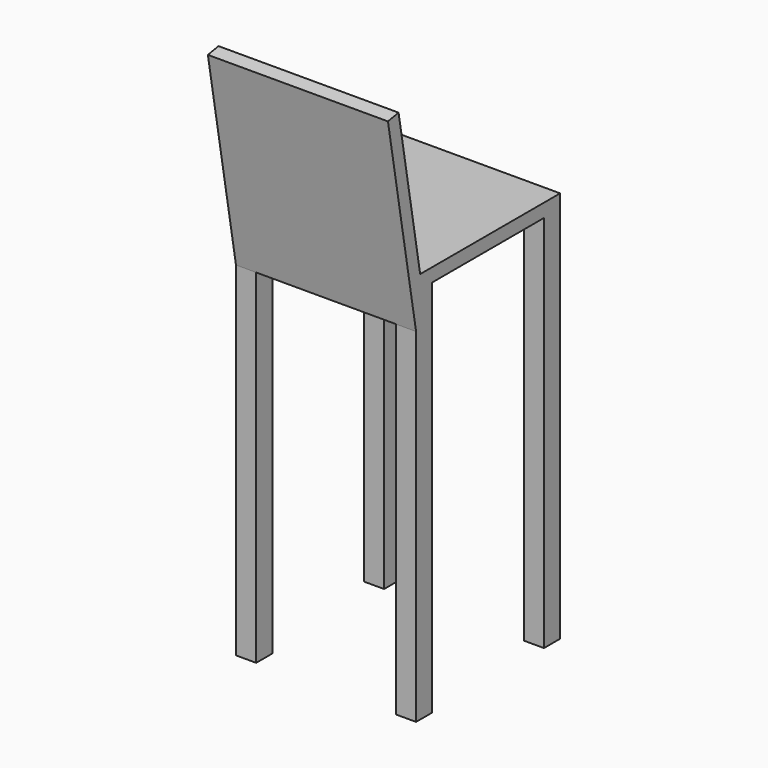
from build123d import *

# Parameters (mm, degrees)
F0_W          = 38.1
F0_H          = 38.1
F1_DEPTH      = 739.775
F3_DEPTH      = 25.4
F6_DEPTH      = 169.8625
F6_DEPTH_BACK = 169.8625


with BuildPart() as f1:
    # F0 (on Top) → F1 (new body)
    with BuildSketch(Plane.XY):
        with Locations((-150.8125, 150.8125)):
            Rectangle(F0_W, F0_H)
        with Locations((-150.8125, -150.8125)):
            Rectangle(F0_W, F0_H)
        with Locations((150.8125, -150.8125)):
            Rectangle(F0_W, F0_H)
        with Locations((150.8125, 150.8125)):
            Rectangle(F0_W, F0_H)
    extrude(amount=F1_DEPTH)


with BuildPart() as f3:
    # F2 (on face) → F3 (new body)
    with BuildSketch(Plane.XY.offset(739.775)):
        Polygon((169.8625, 169.8625), (-131.7625, 169.8625), (-131.7625, 131.7625), (-169.8625, 131.7625), (-169.8625, -169.8625), (169.8625, -169.8625), align=None)
    extrude(amount=-F3_DEPTH)

    # F4: union F1
    add(f1.part)

    # F5 (on Right) → F6 (join, two sides)
    with BuildSketch(Plane.YZ) as f6_sk:
        Polygon((-169.8625, 739.775), (-160.192227, 739.775), (-211.1375, 1028.7), (-236.151617, 1024.289336), (-169.8625, 648.345073), align=None)
    extrude(amount=F6_DEPTH)
    extrude(f6_sk.sketch, amount=-F6_DEPTH_BACK)


solid = f3.part
